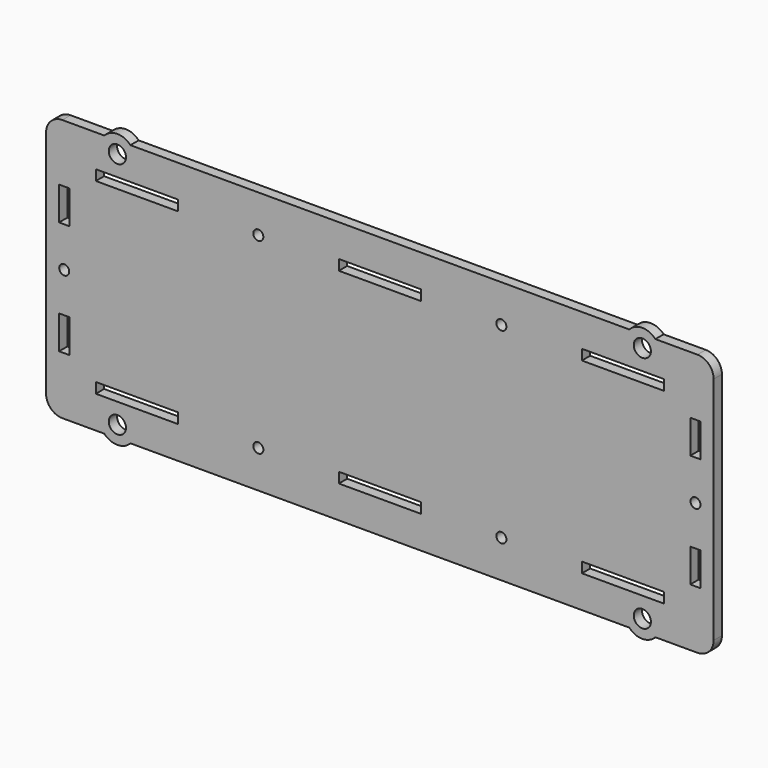
from build123d import *

# Parameters (mm, degrees)
F1_W     = 25.3
F1_H     = 3.2
F1_R     = 1.55
F1_W_2   = 3.2
F1_H_2   = 10.3
F2_DEPTH = 3.2
F4_R     = 5.5
F5_DEPTH = 3.2
F3_R     = 2.65
F6_DEPTH = 3.201
F7_R     = 5


with BuildPart() as f2:
    # F1 (on Front) → F2 (new body)
    with BuildSketch(Plane.XZ):
        Polygon((-99, 81), (-103, 81), (-103, 0), (-99, 0), (99, 0), (103, 0), (103, 81), (99, 81), align=None)
        with Locations((-75, 11.6)):
            Rectangle(F1_W, F1_H, mode=Mode.SUBTRACT)
        with Locations((-37.5, 11.6)):
            Circle(F1_R, mode=Mode.SUBTRACT)
        with Locations((0, 11.6)):
            Rectangle(F1_W, F1_H, mode=Mode.SUBTRACT)
        with Locations((-97.4, 23)):
            Rectangle(F1_W_2, F1_H_2, mode=Mode.SUBTRACT)
        with Locations((37.5, 11.6)):
            Circle(F1_R, mode=Mode.SUBTRACT)
        with Locations((75, 11.6)):
            Rectangle(F1_W, F1_H, mode=Mode.SUBTRACT)
        with Locations((97.4, 23)):
            Rectangle(F1_W_2, F1_H_2, mode=Mode.SUBTRACT)
        with Locations((-97.4, 40.5)):
            Circle(F1_R, mode=Mode.SUBTRACT)
        with Locations((-97.4, 58)):
            Rectangle(F1_W_2, F1_H_2, mode=Mode.SUBTRACT)
        with Locations((-75, 69.4)):
            Rectangle(F1_W, F1_H, mode=Mode.SUBTRACT)
        with Locations((-37.5, 69.4)):
            Circle(F1_R, mode=Mode.SUBTRACT)
        with Locations((0, 69.4)):
            Rectangle(F1_W, F1_H, mode=Mode.SUBTRACT)
        with Locations((97.4, 40.5)):
            Circle(F1_R, mode=Mode.SUBTRACT)
        with Locations((97.4, 58)):
            Rectangle(F1_W_2, F1_H_2, mode=Mode.SUBTRACT)
        with Locations((37.5, 69.4)):
            Circle(F1_R, mode=Mode.SUBTRACT)
        with Locations((75, 69.4)):
            Rectangle(F1_W, F1_H, mode=Mode.SUBTRACT)
    extrude(amount=F2_DEPTH)

    # F4 (on face) → F5 (join, through all)
    with BuildSketch(Plane.XZ.offset(3.2)):
        with Locations((-81, 77.25)):
            Circle(F4_R)
        with Locations((81, 77.25)):
            Circle(F4_R)
        with Locations((81, 3.75)):
            Circle(F4_R)
        with Locations((-81, 3.75)):
            Circle(F4_R)
    extrude(amount=-F5_DEPTH)

    # F3 (on face) → F6 (cut, through all)
    with BuildSketch(Plane.XZ.offset(3.2)):
        with Locations((-81, 77.25)):
            Circle(F3_R)
        with Locations((-81, 3.75)):
            Circle(F3_R)
        with Locations((81, 3.75)):
            Circle(F3_R)
        with Locations((81, 77.25)):
            Circle(F3_R)
    extrude(amount=-F6_DEPTH, mode=Mode.SUBTRACT)

    # F7
    f7_edges = [f2.edges().sort_by_distance(p)[0] for p in [
        (-103, -1.6, 81),
        (-103, -1.6, 0),
        (103, -1.6, 0),
        (103, -1.6, 81),
    ]]
    fillet(f7_edges, radius=F7_R)


solid = f2.part
